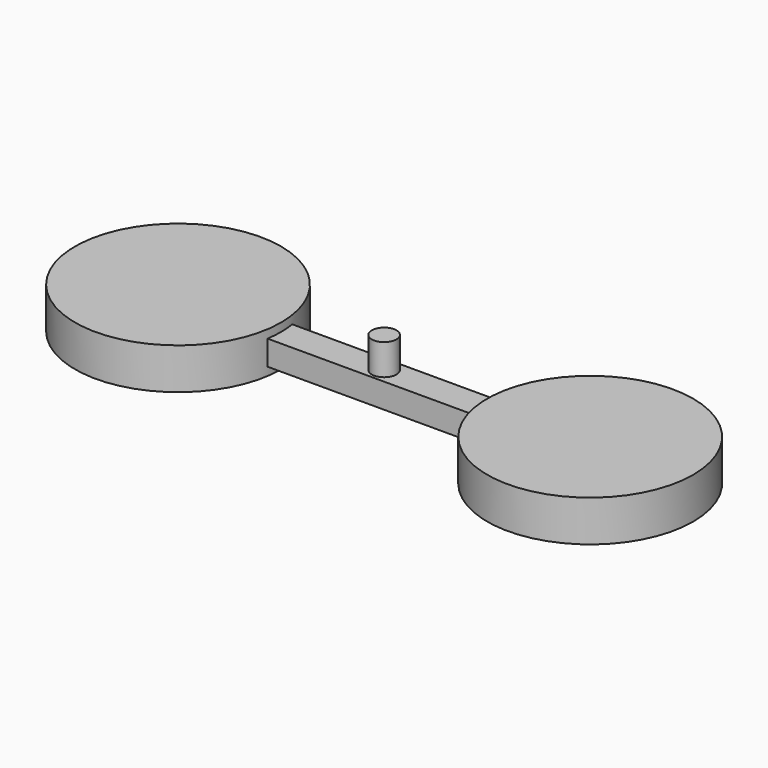
from build123d import *

# Parameters (mm, degrees)
CYLINDER142_R     = 2.5
CYLINDER142_DEPTH = 1
CYLINDER141_R     = 2.5
CYLINDER141_DEPTH = 1
CYLINDER140_R     = 0.3
CYLINDER140_DEPTH = 0.75
BOX_W             = 10
BOX_H             = 0.75
BOX_DEPTH         = 0.6


with BuildPart() as obj1:
    # Cylinder142 → Cylinder142 (new body)
    with BuildSketch(Plane(origin=(5, 0, -0.5), x_dir=(1, 0, 0), z_dir=(0, 0, 1))):
        Circle(CYLINDER142_R)
    extrude(amount=CYLINDER142_DEPTH)


with BuildPart() as obj2:
    # Cylinder141 → Cylinder141 (new body)
    with BuildSketch(Plane(origin=(-5, 0, -0.5), x_dir=(1, 0, 0), z_dir=(0, 0, 1))):
        Circle(CYLINDER141_R)
    extrude(amount=CYLINDER141_DEPTH)


with BuildPart() as nozzle_od:
    # Cylinder140 → Cylinder140 (new body)
    with BuildSketch(Plane.XY.offset(0.3)):
        Circle(CYLINDER140_R)
    extrude(amount=CYLINDER140_DEPTH)


with BuildPart() as fusion:
    # Box → Box (new body)
    with BuildSketch(Plane(origin=(-5, -0.375, -0.3), x_dir=(1, 0, 0), z_dir=(0, 0, 1))):
        with Locations((5, 0.375)):
            Rectangle(BOX_W, BOX_H)
    extrude(amount=BOX_DEPTH)

    # Fusion: union obj1, obj2, Nozzle_OD
    add(obj1.part)
    add(obj2.part)
    add(nozzle_od.part)


solid = fusion.part
